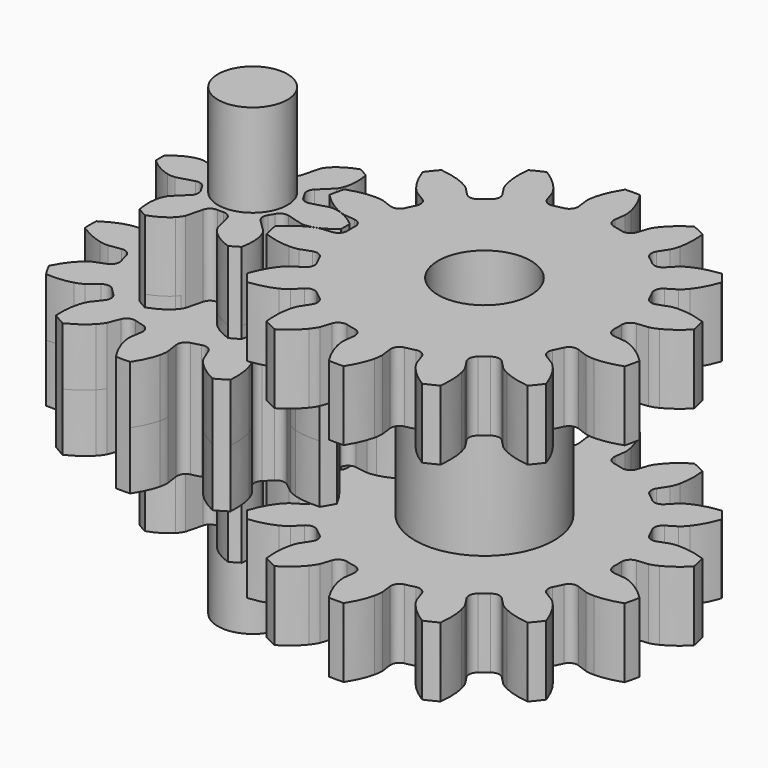
from build123d import *

# Parameters (mm, degrees)
PAD_DEPTH     = 3
SKETCH001_W   = 3.079718
SKETCH001_H   = 3
SKETCH001_W_2 = 1
SKETCH001_H_2 = 10
PAD001_DEPTH  = 3
SKETCH002_W   = 3.079718
SKETCH002_H   = 3
SKETCH002_W_2 = 1
SKETCH002_H_2 = 10
PAD002_DEPTH  = 3
PAD003_DEPTH  = 1.25
SKETCH004_R   = 0.75
PAD004_DEPTH  = 5


with BuildPart() as body:
    # InvoluteGear → Pad (new body, symmetric)
    with BuildSketch(Plane(origin=(0, 0, 0), x_dir=(0.974928, 0.222521, 0), z_dir=(0, 0, 1))):
        with BuildLine():
            Line((3.032096, -0.387481), (3.270569, -0.417559))
            add(Edge.make_bspline(
                [(3.270569, -0.417559), (3.291937, -0.418777), (3.356145, -0.419475), (3.463758, -0.395292)],
                knots=[0, 0, 0, 0, 1, 1, 1, 1], degree=3))
            add(Edge.make_bspline(
                [(3.463758, -0.395292), (3.592083, -0.365826), (3.775482, -0.301225), (3.997382, -0.16119)],
                knots=[0, 0, 0, 0, 1, 1, 1, 1], degree=3))
            ThreePointArc((3.997382, -0.16119), (4.000631, 0), (3.997382, 0.16119))
            add(Edge.make_bspline(
                [(3.997382, 0.16119), (3.775482, 0.301225), (3.592083, 0.365826), (3.463758, 0.395292)],
                knots=[0, 0, 0, 0, 1, 1, 1, 1], degree=3))
            add(Edge.make_bspline(
                [(3.463758, 0.395292), (3.356145, 0.419475), (3.291937, 0.418777), (3.270569, 0.417559)],
                knots=[0, 0, 0, 0, 1, 1, 1, 1], degree=3))
            Line((3.270569, 0.417559), (3.032096, 0.387481))
            ThreePointArc((3.032096, 0.387481), (2.898352, 0.421609), (2.824207, 0.538034))
            ThreePointArc((2.824207, 0.538034), (2.802918, 0.639748), (2.777967, 0.740625))
            ThreePointArc((2.777967, 0.740625), (2.794254, 0.877691), (2.899946, 0.966469))
            Line((2.899946, 0.966469), (3.127853, 1.042838))
            add(Edge.make_bspline(
                [(3.127853, 1.042838), (3.147633, 1.051012), (3.205786, 1.078243), (3.292249, 1.146723)],
                knots=[0, 0, 0, 0, 1, 1, 1, 1], degree=3))
            add(Edge.make_bspline(
                [(3.292249, 1.146723), (3.395081, 1.228948), (3.532289, 1.366726), (3.671455, 1.589172)],
                knots=[0, 0, 0, 0, 1, 1, 1, 1], degree=3))
            ThreePointArc((3.671455, 1.589172), (3.604444, 1.735809), (3.531579, 1.879626))
            add(Edge.make_bspline(
                [(3.531579, 1.879626), (3.270895, 1.909515), (3.077629, 1.888145), (2.949228, 1.859014)],
                knots=[0, 0, 0, 0, 1, 1, 1, 1], degree=3))
            add(Edge.make_bspline(
                [(2.949228, 1.859014), (2.841779, 1.83411), (2.784232, 1.805623), (2.765508, 1.795255)],
                knots=[0, 0, 0, 0, 1, 1, 1, 1], degree=3))
            Line((2.765508, 1.795255), (2.563703, 1.664686))
            ThreePointArc((2.563703, 1.664686), (2.428395, 1.637404), (2.311078, 1.71013))
            ThreePointArc((2.311078, 1.71013), (2.247766, 1.792533), (2.181516, 1.872595))
            ThreePointArc((2.181516, 1.872595), (2.136719, 2.003154), (2.193426, 2.128998))
            Line((2.193426, 2.128998), (2.365627, 2.29669))
            add(Edge.make_bspline(
                [(2.365627, 2.29669), (2.379902, 2.312636), (2.420481, 2.362402), (2.468669, 2.461615)],
                knots=[0, 0, 0, 0, 1, 1, 1, 1], degree=3))
            add(Edge.make_bspline(
                [(2.468669, 2.461615), (2.525642, 2.580314), (2.589482, 2.76398), (2.618351, 3.024779)],
                knots=[0, 0, 0, 0, 1, 1, 1, 1], degree=3))
            ThreePointArc((2.618351, 3.024779), (2.494353, 3.12782), (2.366304, 3.22578))
            add(Edge.make_bspline(
                [(2.366304, 3.22578), (2.118467, 3.139602), (1.953612, 3.036493), (1.850566, 2.954536)],
                knots=[0, 0, 0, 0, 1, 1, 1, 1], degree=3))
            add(Edge.make_bspline(
                [(1.850566, 2.954536), (1.764564, 2.885478), (1.725076, 2.834843), (1.712705, 2.817378)],
                knots=[0, 0, 0, 0, 1, 1, 1, 1], degree=3))
            Line((1.712705, 2.817378), (1.587536, 2.612179))
            ThreePointArc((1.587536, 2.612179), (1.477466, 2.528891), (1.340212, 2.543513))
            ThreePointArc((1.340212, 2.543513), (1.247416, 2.590285), (1.15299, 2.633674))
            ThreePointArc((1.15299, 2.633674), (1.055982, 2.731867), (1.052471, 2.869853))
            Line((1.052471, 2.869853), (1.13486, 3.095653))
            add(Edge.make_bspline(
                [(1.13486, 3.095653), (1.140803, 3.116214), (1.15577, 3.178658), (1.15614, 3.288954)],
                knots=[0, 0, 0, 0, 1, 1, 1, 1], degree=3))
            add(Edge.make_bspline(
                [(1.15614, 3.288954), (1.155968, 3.420618), (1.133797, 3.613794), (1.04665, 3.861291)],
                knots=[0, 0, 0, 0, 1, 1, 1, 1], degree=3))
            ThreePointArc((1.04665, 3.861291), (0.890224, 3.900327), (0.732353, 3.933028))
            add(Edge.make_bspline(
                [(0.732353, 3.933028), (0.546451, 3.747852), (0.442659, 3.583426), (0.385378, 3.464875)],
                knots=[0, 0, 0, 0, 1, 1, 1, 1], degree=3))
            add(Edge.make_bspline(
                [(0.385378, 3.464875), (0.337855, 3.365342), (0.324247, 3.302588), (0.32068, 3.281484)],
                knots=[0, 0, 0, 0, 1, 1, 1, 1], degree=3))
            Line((0.32068, 3.281484), (0.296939, 3.042298))
            ThreePointArc((0.296939, 3.042298), (0.233906, 2.919501), (0.103901, 2.873122))
            ThreePointArc((0.103901, 2.873122), (0, 2.875), (-0.103901, 2.873122))
            ThreePointArc((-0.103901, 2.873122), (-0.233906, 2.919501), (-0.296939, 3.042298))
            Line((-0.296939, 3.042298), (-0.32068, 3.281484))
            add(Edge.make_bspline(
                [(-0.32068, 3.281484), (-0.324247, 3.302588), (-0.337855, 3.365342), (-0.385378, 3.464875)],
                knots=[0, 0, 0, 0, 1, 1, 1, 1], degree=3))
            add(Edge.make_bspline(
                [(-0.385378, 3.464875), (-0.442659, 3.583426), (-0.546451, 3.747852), (-0.732353, 3.933028)],
                knots=[0, 0, 0, 0, 1, 1, 1, 1], degree=3))
            ThreePointArc((-0.732353, 3.933028), (-0.890224, 3.900327), (-1.04665, 3.861291))
            add(Edge.make_bspline(
                [(-1.04665, 3.861291), (-1.133797, 3.613794), (-1.155968, 3.420618), (-1.15614, 3.288954)],
                knots=[0, 0, 0, 0, 1, 1, 1, 1], degree=3))
            add(Edge.make_bspline(
                [(-1.15614, 3.288954), (-1.15577, 3.178658), (-1.140803, 3.116214), (-1.13486, 3.095653)],
                knots=[0, 0, 0, 0, 1, 1, 1, 1], degree=3))
            Line((-1.13486, 3.095653), (-1.052471, 2.869853))
            ThreePointArc((-1.052471, 2.869853), (-1.055982, 2.731867), (-1.15299, 2.633674))
            ThreePointArc((-1.15299, 2.633674), (-1.247416, 2.590285), (-1.340212, 2.543513))
            ThreePointArc((-1.340212, 2.543513), (-1.477466, 2.528891), (-1.587536, 2.612179))
            Line((-1.587536, 2.612179), (-1.712705, 2.817378))
            add(Edge.make_bspline(
                [(-1.712705, 2.817378), (-1.725076, 2.834843), (-1.764564, 2.885478), (-1.850566, 2.954536)],
                knots=[0, 0, 0, 0, 1, 1, 1, 1], degree=3))
            add(Edge.make_bspline(
                [(-1.850566, 2.954536), (-1.953612, 3.036493), (-2.118467, 3.139602), (-2.366304, 3.22578)],
                knots=[0, 0, 0, 0, 1, 1, 1, 1], degree=3))
            ThreePointArc((-2.366304, 3.22578), (-2.494353, 3.12782), (-2.618351, 3.024779))
            add(Edge.make_bspline(
                [(-2.618351, 3.024779), (-2.589482, 2.76398), (-2.525642, 2.580314), (-2.468669, 2.461615)],
                knots=[0, 0, 0, 0, 1, 1, 1, 1], degree=3))
            add(Edge.make_bspline(
                [(-2.468669, 2.461615), (-2.420481, 2.362402), (-2.379902, 2.312636), (-2.365627, 2.29669)],
                knots=[0, 0, 0, 0, 1, 1, 1, 1], degree=3))
            Line((-2.365627, 2.29669), (-2.193426, 2.128998))
            ThreePointArc((-2.193426, 2.128998), (-2.136719, 2.003154), (-2.181516, 1.872595))
            ThreePointArc((-2.181516, 1.872595), (-2.247766, 1.792533), (-2.311078, 1.71013))
            ThreePointArc((-2.311078, 1.71013), (-2.428395, 1.637404), (-2.563703, 1.664686))
            Line((-2.563703, 1.664686), (-2.765508, 1.795255))
            add(Edge.make_bspline(
                [(-2.765508, 1.795255), (-2.784232, 1.805623), (-2.841779, 1.83411), (-2.949228, 1.859014)],
                knots=[0, 0, 0, 0, 1, 1, 1, 1], degree=3))
            add(Edge.make_bspline(
                [(-2.949228, 1.859014), (-3.077629, 1.888145), (-3.270895, 1.909515), (-3.531579, 1.879626)],
                knots=[0, 0, 0, 0, 1, 1, 1, 1], degree=3))
            ThreePointArc((-3.531579, 1.879626), (-3.604444, 1.735809), (-3.671455, 1.589172))
            add(Edge.make_bspline(
                [(-3.671455, 1.589172), (-3.532289, 1.366726), (-3.395081, 1.228948), (-3.292249, 1.146723)],
                knots=[0, 0, 0, 0, 1, 1, 1, 1], degree=3))
            add(Edge.make_bspline(
                [(-3.292249, 1.146723), (-3.205786, 1.078243), (-3.147633, 1.051012), (-3.127853, 1.042838)],
                knots=[0, 0, 0, 0, 1, 1, 1, 1], degree=3))
            Line((-3.127853, 1.042838), (-2.899946, 0.966469))
            ThreePointArc((-2.899946, 0.966469), (-2.794254, 0.877691), (-2.777967, 0.740625))
            ThreePointArc((-2.777967, 0.740625), (-2.802918, 0.639748), (-2.824207, 0.538034))
            ThreePointArc((-2.824207, 0.538034), (-2.898352, 0.421609), (-3.032096, 0.387481))
            Line((-3.032096, 0.387481), (-3.270569, 0.417559))
            add(Edge.make_bspline(
                [(-3.270569, 0.417559), (-3.291937, 0.418777), (-3.356145, 0.419475), (-3.463758, 0.395292)],
                knots=[0, 0, 0, 0, 1, 1, 1, 1], degree=3))
            add(Edge.make_bspline(
                [(-3.463758, 0.395292), (-3.592083, 0.365826), (-3.775482, 0.301225), (-3.997382, 0.16119)],
                knots=[0, 0, 0, 0, 1, 1, 1, 1], degree=3))
            ThreePointArc((-3.997382, 0.16119), (-4.000631, 0), (-3.997382, -0.16119))
            add(Edge.make_bspline(
                [(-3.997382, -0.16119), (-3.775482, -0.301225), (-3.592083, -0.365826), (-3.463758, -0.395292)],
                knots=[0, 0, 0, 0, 1, 1, 1, 1], degree=3))
            add(Edge.make_bspline(
                [(-3.463758, -0.395292), (-3.356145, -0.419475), (-3.291937, -0.418777), (-3.270569, -0.417559)],
                knots=[0, 0, 0, 0, 1, 1, 1, 1], degree=3))
            Line((-3.270569, -0.417559), (-3.032096, -0.387481))
            ThreePointArc((-3.032096, -0.387481), (-2.898352, -0.421609), (-2.824207, -0.538034))
            ThreePointArc((-2.824207, -0.538034), (-2.802918, -0.639748), (-2.777967, -0.740625))
            ThreePointArc((-2.777967, -0.740625), (-2.794254, -0.877691), (-2.899946, -0.966469))
            Line((-2.899946, -0.966469), (-3.127853, -1.042838))
            add(Edge.make_bspline(
                [(-3.127853, -1.042838), (-3.147633, -1.051012), (-3.205786, -1.078243), (-3.292249, -1.146723)],
                knots=[0, 0, 0, 0, 1, 1, 1, 1], degree=3))
            add(Edge.make_bspline(
                [(-3.292249, -1.146723), (-3.395081, -1.228948), (-3.532289, -1.366726), (-3.671455, -1.589172)],
                knots=[0, 0, 0, 0, 1, 1, 1, 1], degree=3))
            ThreePointArc((-3.671455, -1.589172), (-3.604444, -1.735809), (-3.531579, -1.879626))
            add(Edge.make_bspline(
                [(-3.531579, -1.879626), (-3.270895, -1.909515), (-3.077629, -1.888145), (-2.949228, -1.859014)],
                knots=[0, 0, 0, 0, 1, 1, 1, 1], degree=3))
            add(Edge.make_bspline(
                [(-2.949228, -1.859014), (-2.841779, -1.83411), (-2.784232, -1.805623), (-2.765508, -1.795255)],
                knots=[0, 0, 0, 0, 1, 1, 1, 1], degree=3))
            Line((-2.765508, -1.795255), (-2.563703, -1.664686))
            ThreePointArc((-2.563703, -1.664686), (-2.428395, -1.637404), (-2.311078, -1.71013))
            ThreePointArc((-2.311078, -1.71013), (-2.247766, -1.792533), (-2.181516, -1.872595))
            ThreePointArc((-2.181516, -1.872595), (-2.136719, -2.003154), (-2.193426, -2.128998))
            Line((-2.193426, -2.128998), (-2.365627, -2.29669))
            add(Edge.make_bspline(
                [(-2.365627, -2.29669), (-2.379902, -2.312636), (-2.420481, -2.362402), (-2.468669, -2.461615)],
                knots=[0, 0, 0, 0, 1, 1, 1, 1], degree=3))
            add(Edge.make_bspline(
                [(-2.468669, -2.461615), (-2.525642, -2.580314), (-2.589482, -2.76398), (-2.618351, -3.024779)],
                knots=[0, 0, 0, 0, 1, 1, 1, 1], degree=3))
            ThreePointArc((-2.618351, -3.024779), (-2.494353, -3.12782), (-2.366304, -3.22578))
            add(Edge.make_bspline(
                [(-2.366304, -3.22578), (-2.118467, -3.139602), (-1.953612, -3.036493), (-1.850566, -2.954536)],
                knots=[0, 0, 0, 0, 1, 1, 1, 1], degree=3))
            add(Edge.make_bspline(
                [(-1.850566, -2.954536), (-1.764564, -2.885478), (-1.725076, -2.834843), (-1.712705, -2.817378)],
                knots=[0, 0, 0, 0, 1, 1, 1, 1], degree=3))
            Line((-1.712705, -2.817378), (-1.587536, -2.612179))
            ThreePointArc((-1.587536, -2.612179), (-1.477466, -2.528891), (-1.340212, -2.543513))
            ThreePointArc((-1.340212, -2.543513), (-1.247416, -2.590285), (-1.15299, -2.633674))
            ThreePointArc((-1.15299, -2.633674), (-1.055982, -2.731867), (-1.052471, -2.869853))
            Line((-1.052471, -2.869853), (-1.13486, -3.095653))
            add(Edge.make_bspline(
                [(-1.13486, -3.095653), (-1.140803, -3.116214), (-1.15577, -3.178658), (-1.15614, -3.288954)],
                knots=[0, 0, 0, 0, 1, 1, 1, 1], degree=3))
            add(Edge.make_bspline(
                [(-1.15614, -3.288954), (-1.155968, -3.420618), (-1.133797, -3.613794), (-1.04665, -3.861291)],
                knots=[0, 0, 0, 0, 1, 1, 1, 1], degree=3))
            ThreePointArc((-1.04665, -3.861291), (-0.890224, -3.900327), (-0.732353, -3.933028))
            add(Edge.make_bspline(
                [(-0.732353, -3.933028), (-0.546451, -3.747852), (-0.442659, -3.583426), (-0.385378, -3.464875)],
                knots=[0, 0, 0, 0, 1, 1, 1, 1], degree=3))
            add(Edge.make_bspline(
                [(-0.385378, -3.464875), (-0.337855, -3.365342), (-0.324247, -3.302588), (-0.32068, -3.281484)],
                knots=[0, 0, 0, 0, 1, 1, 1, 1], degree=3))
            Line((-0.32068, -3.281484), (-0.296939, -3.042298))
            ThreePointArc((-0.296939, -3.042298), (-0.233906, -2.919501), (-0.103901, -2.873122))
            ThreePointArc((-0.103901, -2.873122), (0, -2.875), (0.103901, -2.873122))
            ThreePointArc((0.103901, -2.873122), (0.233906, -2.919501), (0.296939, -3.042298))
            Line((0.296939, -3.042298), (0.32068, -3.281484))
            add(Edge.make_bspline(
                [(0.32068, -3.281484), (0.324247, -3.302588), (0.337855, -3.365342), (0.385378, -3.464875)],
                knots=[0, 0, 0, 0, 1, 1, 1, 1], degree=3))
            add(Edge.make_bspline(
                [(0.385378, -3.464875), (0.442659, -3.583426), (0.546451, -3.747852), (0.732353, -3.933028)],
                knots=[0, 0, 0, 0, 1, 1, 1, 1], degree=3))
            ThreePointArc((0.732353, -3.933028), (0.890224, -3.900327), (1.04665, -3.861291))
            add(Edge.make_bspline(
                [(1.04665, -3.861291), (1.133797, -3.613794), (1.155968, -3.420618), (1.15614, -3.288954)],
                knots=[0, 0, 0, 0, 1, 1, 1, 1], degree=3))
            add(Edge.make_bspline(
                [(1.15614, -3.288954), (1.15577, -3.178658), (1.140803, -3.116214), (1.13486, -3.095653)],
                knots=[0, 0, 0, 0, 1, 1, 1, 1], degree=3))
            Line((1.13486, -3.095653), (1.052471, -2.869853))
            ThreePointArc((1.052471, -2.869853), (1.055982, -2.731867), (1.15299, -2.633674))
            ThreePointArc((1.15299, -2.633674), (1.247416, -2.590285), (1.340212, -2.543513))
            ThreePointArc((1.340212, -2.543513), (1.477466, -2.528891), (1.587536, -2.612179))
            Line((1.587536, -2.612179), (1.712705, -2.817378))
            add(Edge.make_bspline(
                [(1.712705, -2.817378), (1.725076, -2.834843), (1.764564, -2.885478), (1.850566, -2.954536)],
                knots=[0, 0, 0, 0, 1, 1, 1, 1], degree=3))
            add(Edge.make_bspline(
                [(1.850566, -2.954536), (1.953612, -3.036493), (2.118467, -3.139602), (2.366304, -3.22578)],
                knots=[0, 0, 0, 0, 1, 1, 1, 1], degree=3))
            ThreePointArc((2.366304, -3.22578), (2.494353, -3.12782), (2.618351, -3.024779))
            add(Edge.make_bspline(
                [(2.618351, -3.024779), (2.589482, -2.76398), (2.525642, -2.580314), (2.468669, -2.461615)],
                knots=[0, 0, 0, 0, 1, 1, 1, 1], degree=3))
            add(Edge.make_bspline(
                [(2.468669, -2.461615), (2.420481, -2.362402), (2.379902, -2.312636), (2.365627, -2.29669)],
                knots=[0, 0, 0, 0, 1, 1, 1, 1], degree=3))
            Line((2.365627, -2.29669), (2.193426, -2.128998))
            ThreePointArc((2.193426, -2.128998), (2.136719, -2.003154), (2.181516, -1.872595))
            ThreePointArc((2.181516, -1.872595), (2.247766, -1.792533), (2.311078, -1.71013))
            ThreePointArc((2.311078, -1.71013), (2.428395, -1.637404), (2.563703, -1.664686))
            Line((2.563703, -1.664686), (2.765508, -1.795255))
            add(Edge.make_bspline(
                [(2.765508, -1.795255), (2.784232, -1.805623), (2.841779, -1.83411), (2.949228, -1.859014)],
                knots=[0, 0, 0, 0, 1, 1, 1, 1], degree=3))
            add(Edge.make_bspline(
                [(2.949228, -1.859014), (3.077629, -1.888145), (3.270895, -1.909515), (3.531579, -1.879626)],
                knots=[0, 0, 0, 0, 1, 1, 1, 1], degree=3))
            ThreePointArc((3.531579, -1.879626), (3.604444, -1.735809), (3.671455, -1.589172))
            add(Edge.make_bspline(
                [(3.671455, -1.589172), (3.532289, -1.366726), (3.395081, -1.228948), (3.292249, -1.146723)],
                knots=[0, 0, 0, 0, 1, 1, 1, 1], degree=3))
            add(Edge.make_bspline(
                [(3.292249, -1.146723), (3.205786, -1.078243), (3.147633, -1.051012), (3.127853, -1.042838)],
                knots=[0, 0, 0, 0, 1, 1, 1, 1], degree=3))
            Line((3.127853, -1.042838), (2.899946, -0.966469))
            ThreePointArc((2.899946, -0.966469), (2.794254, -0.877691), (2.777967, -0.740625))
            ThreePointArc((2.777967, -0.740625), (2.802918, -0.639748), (2.824207, -0.538034))
            ThreePointArc((2.824207, -0.538034), (2.898352, -0.421609), (3.032096, -0.387481))
        make_face()
    extrude(amount=PAD_DEPTH, both=True)

    # Sketch001 → Groove (revolve, cut)
    with BuildSketch(Plane.XZ):
        with Locations((-3.039859, 0)):
            Rectangle(SKETCH001_W, SKETCH001_H)
        with Locations((-0.5, 0)):
            Rectangle(SKETCH001_W_2, SKETCH001_H_2)
    revolve(axis=Axis((0, 0, 0), (0, 0, 1)), mode=Mode.SUBTRACT)


with BuildPart() as body001:
    # InvoluteGear001 → Pad001 (new body, symmetric)
    with BuildSketch(Plane.XY):
        with BuildLine():
            Line((1.006043, -0.285705), (1.363515, -0.38664))
            add(Edge.make_bspline(
                [(1.363515, -0.38664), (1.382622, -0.389981), (1.439701, -0.396093), (1.538721, -0.373445)],
                knots=[0, 0, 0, 0, 1, 1, 1, 1], degree=3))
            add(Edge.make_bspline(
                [(1.538721, -0.373445), (1.655028, -0.34513), (1.816791, -0.276694), (1.997727, -0.116892)],
                knots=[0, 0, 0, 0, 1, 1, 1, 1], degree=3))
            ThreePointArc((1.997727, -0.116892), (2.001146, 0), (1.997727, 0.116892))
            add(Edge.make_bspline(
                [(1.997727, 0.116892), (1.816791, 0.276694), (1.655028, 0.34513), (1.538721, 0.373445)],
                knots=[0, 0, 0, 0, 1, 1, 1, 1], degree=3))
            add(Edge.make_bspline(
                [(1.538721, 0.373445), (1.439701, 0.396093), (1.382622, 0.389981), (1.363515, 0.38664)],
                knots=[0, 0, 0, 0, 1, 1, 1, 1], degree=3))
            Line((1.363515, 0.38664), (1.006043, 0.285705))
            ThreePointArc((1.006043, 0.285705), (0.87945, 0.294376), (0.787367, 0.381679))
            ThreePointArc((0.787367, 0.381679), (0.757772, 0.4375), (0.724227, 0.49104))
            ThreePointArc((0.724227, 0.49104), (0.694661, 0.614438), (0.750449, 0.728406))
            Line((0.750449, 0.728406), (1.016597, 0.987519))
            add(Edge.make_bspline(
                [(1.016597, 0.987519), (1.029044, 1.002395), (1.062877, 1.048771), (1.092773, 1.145849)],
                knots=[0, 0, 0, 0, 1, 1, 1, 1], degree=3))
            add(Edge.make_bspline(
                [(1.092773, 1.145849), (1.126405, 1.260731), (1.148019, 1.43504), (1.100095, 1.671636)],
                knots=[0, 0, 0, 0, 1, 1, 1, 1], degree=3))
            ThreePointArc((1.100095, 1.671636), (1.000573, 1.733043), (0.897632, 1.788529))
            add(Edge.make_bspline(
                [(0.897632, 1.788529), (0.668772, 1.711734), (0.528623, 1.605861), (0.445948, 1.519294)],
                knots=[0, 0, 0, 0, 1, 1, 1, 1], degree=3))
            add(Edge.make_bspline(
                [(0.445948, 1.519294), (0.376823, 1.444864), (0.353577, 1.392376), (0.346918, 1.374158)],
                knots=[0, 0, 0, 0, 1, 1, 1, 1], degree=3))
            Line((0.346918, 1.374158), (0.255594, 1.014111))
            ThreePointArc((0.255594, 1.014111), (0.184788, 0.908813), (0.06314, 0.872719))
            ThreePointArc((0.06314, 0.872719), (0, 0.875), (-0.06314, 0.872719))
            ThreePointArc((-0.06314, 0.872719), (-0.184788, 0.908813), (-0.255594, 1.014111))
            Line((-0.255594, 1.014111), (-0.346918, 1.374158))
            add(Edge.make_bspline(
                [(-0.346918, 1.374158), (-0.353577, 1.392376), (-0.376823, 1.444864), (-0.445948, 1.519294)],
                knots=[0, 0, 0, 0, 1, 1, 1, 1], degree=3))
            add(Edge.make_bspline(
                [(-0.445948, 1.519294), (-0.528623, 1.605861), (-0.668772, 1.711734), (-0.897632, 1.788529)],
                knots=[0, 0, 0, 0, 1, 1, 1, 1], degree=3))
            ThreePointArc((-0.897632, 1.788529), (-1.000573, 1.733043), (-1.100095, 1.671636))
            add(Edge.make_bspline(
                [(-1.100095, 1.671636), (-1.148019, 1.43504), (-1.126405, 1.260731), (-1.092773, 1.145849)],
                knots=[0, 0, 0, 0, 1, 1, 1, 1], degree=3))
            add(Edge.make_bspline(
                [(-1.092773, 1.145849), (-1.062877, 1.048771), (-1.029044, 1.002395), (-1.016597, 0.987519)],
                knots=[0, 0, 0, 0, 1, 1, 1, 1], degree=3))
            Line((-1.016597, 0.987519), (-0.750449, 0.728406))
            ThreePointArc((-0.750449, 0.728406), (-0.694661, 0.614438), (-0.724227, 0.49104))
            ThreePointArc((-0.724227, 0.49104), (-0.757772, 0.4375), (-0.787367, 0.381679))
            ThreePointArc((-0.787367, 0.381679), (-0.87945, 0.294376), (-1.006043, 0.285705))
            Line((-1.006043, 0.285705), (-1.363515, 0.38664))
            add(Edge.make_bspline(
                [(-1.363515, 0.38664), (-1.382622, 0.389981), (-1.439701, 0.396093), (-1.538721, 0.373445)],
                knots=[0, 0, 0, 0, 1, 1, 1, 1], degree=3))
            add(Edge.make_bspline(
                [(-1.538721, 0.373445), (-1.655028, 0.34513), (-1.816791, 0.276694), (-1.997727, 0.116892)],
                knots=[0, 0, 0, 0, 1, 1, 1, 1], degree=3))
            ThreePointArc((-1.997727, 0.116892), (-2.001146, 0), (-1.997727, -0.116892))
            add(Edge.make_bspline(
                [(-1.997727, -0.116892), (-1.816791, -0.276694), (-1.655028, -0.34513), (-1.538721, -0.373445)],
                knots=[0, 0, 0, 0, 1, 1, 1, 1], degree=3))
            add(Edge.make_bspline(
                [(-1.538721, -0.373445), (-1.439701, -0.396093), (-1.382622, -0.389981), (-1.363515, -0.38664)],
                knots=[0, 0, 0, 0, 1, 1, 1, 1], degree=3))
            Line((-1.363515, -0.38664), (-1.006043, -0.285705))
            ThreePointArc((-1.006043, -0.285705), (-0.87945, -0.294376), (-0.787367, -0.381679))
            ThreePointArc((-0.787367, -0.381679), (-0.757772, -0.4375), (-0.724227, -0.49104))
            ThreePointArc((-0.724227, -0.49104), (-0.694661, -0.614438), (-0.750449, -0.728406))
            Line((-0.750449, -0.728406), (-1.016597, -0.987519))
            add(Edge.make_bspline(
                [(-1.016597, -0.987519), (-1.029044, -1.002395), (-1.062877, -1.048771), (-1.092773, -1.145849)],
                knots=[0, 0, 0, 0, 1, 1, 1, 1], degree=3))
            add(Edge.make_bspline(
                [(-1.092773, -1.145849), (-1.126405, -1.260731), (-1.148019, -1.43504), (-1.100095, -1.671636)],
                knots=[0, 0, 0, 0, 1, 1, 1, 1], degree=3))
            ThreePointArc((-1.100095, -1.671636), (-1.000573, -1.733043), (-0.897632, -1.788529))
            add(Edge.make_bspline(
                [(-0.897632, -1.788529), (-0.668772, -1.711734), (-0.528623, -1.605861), (-0.445948, -1.519294)],
                knots=[0, 0, 0, 0, 1, 1, 1, 1], degree=3))
            add(Edge.make_bspline(
                [(-0.445948, -1.519294), (-0.376823, -1.444864), (-0.353577, -1.392376), (-0.346918, -1.374158)],
                knots=[0, 0, 0, 0, 1, 1, 1, 1], degree=3))
            Line((-0.346918, -1.374158), (-0.255594, -1.014111))
            ThreePointArc((-0.255594, -1.014111), (-0.184788, -0.908813), (-0.06314, -0.872719))
            ThreePointArc((-0.06314, -0.872719), (0, -0.875), (0.06314, -0.872719))
            ThreePointArc((0.06314, -0.872719), (0.184788, -0.908813), (0.255594, -1.014111))
            Line((0.255594, -1.014111), (0.346918, -1.374158))
            add(Edge.make_bspline(
                [(0.346918, -1.374158), (0.353577, -1.392376), (0.376823, -1.444864), (0.445948, -1.519294)],
                knots=[0, 0, 0, 0, 1, 1, 1, 1], degree=3))
            add(Edge.make_bspline(
                [(0.445948, -1.519294), (0.528623, -1.605861), (0.668772, -1.711734), (0.897632, -1.788529)],
                knots=[0, 0, 0, 0, 1, 1, 1, 1], degree=3))
            ThreePointArc((0.897632, -1.788529), (1.000573, -1.733043), (1.100095, -1.671636))
            add(Edge.make_bspline(
                [(1.100095, -1.671636), (1.148019, -1.43504), (1.126405, -1.260731), (1.092773, -1.145849)],
                knots=[0, 0, 0, 0, 1, 1, 1, 1], degree=3))
            add(Edge.make_bspline(
                [(1.092773, -1.145849), (1.062877, -1.048771), (1.029044, -1.002395), (1.016597, -0.987519)],
                knots=[0, 0, 0, 0, 1, 1, 1, 1], degree=3))
            Line((1.016597, -0.987519), (0.750449, -0.728406))
            ThreePointArc((0.750449, -0.728406), (0.694661, -0.614438), (0.724227, -0.49104))
            ThreePointArc((0.724227, -0.49104), (0.757772, -0.4375), (0.787367, -0.381679))
            ThreePointArc((0.787367, -0.381679), (0.87945, -0.294376), (1.006043, -0.285705))
        make_face()
    extrude(amount=PAD001_DEPTH, both=True)

    # Sketch002 → Groove001 (revolve, cut)
    with BuildSketch(Plane.XZ):
        with Locations((-3.039859, 0)):
            Rectangle(SKETCH002_W, SKETCH002_H)
        with Locations((-0.5, 0)):
            Rectangle(SKETCH002_W_2, SKETCH002_H_2)
    revolve(axis=Axis((0, 0, 0), (0, 0, 1)), mode=Mode.SUBTRACT)

    # InvoluteGear001 → Pad002 (join, symmetric)
    with BuildSketch(Plane.XY):
        with BuildLine():
            Line((1.006043, -0.285705), (1.363515, -0.38664))
            add(Edge.make_bspline(
                [(1.363515, -0.38664), (1.382622, -0.389981), (1.439701, -0.396093), (1.538721, -0.373445)],
                knots=[0, 0, 0, 0, 1, 1, 1, 1], degree=3))
            add(Edge.make_bspline(
                [(1.538721, -0.373445), (1.655028, -0.34513), (1.816791, -0.276694), (1.997727, -0.116892)],
                knots=[0, 0, 0, 0, 1, 1, 1, 1], degree=3))
            ThreePointArc((1.997727, -0.116892), (2.001146, 0), (1.997727, 0.116892))
            add(Edge.make_bspline(
                [(1.997727, 0.116892), (1.816791, 0.276694), (1.655028, 0.34513), (1.538721, 0.373445)],
                knots=[0, 0, 0, 0, 1, 1, 1, 1], degree=3))
            add(Edge.make_bspline(
                [(1.538721, 0.373445), (1.439701, 0.396093), (1.382622, 0.389981), (1.363515, 0.38664)],
                knots=[0, 0, 0, 0, 1, 1, 1, 1], degree=3))
            Line((1.363515, 0.38664), (1.006043, 0.285705))
            ThreePointArc((1.006043, 0.285705), (0.87945, 0.294376), (0.787367, 0.381679))
            ThreePointArc((0.787367, 0.381679), (0.757772, 0.4375), (0.724227, 0.49104))
            ThreePointArc((0.724227, 0.49104), (0.694661, 0.614438), (0.750449, 0.728406))
            Line((0.750449, 0.728406), (1.016597, 0.987519))
            add(Edge.make_bspline(
                [(1.016597, 0.987519), (1.029044, 1.002395), (1.062877, 1.048771), (1.092773, 1.145849)],
                knots=[0, 0, 0, 0, 1, 1, 1, 1], degree=3))
            add(Edge.make_bspline(
                [(1.092773, 1.145849), (1.126405, 1.260731), (1.148019, 1.43504), (1.100095, 1.671636)],
                knots=[0, 0, 0, 0, 1, 1, 1, 1], degree=3))
            ThreePointArc((1.100095, 1.671636), (1.000573, 1.733043), (0.897632, 1.788529))
            add(Edge.make_bspline(
                [(0.897632, 1.788529), (0.668772, 1.711734), (0.528623, 1.605861), (0.445948, 1.519294)],
                knots=[0, 0, 0, 0, 1, 1, 1, 1], degree=3))
            add(Edge.make_bspline(
                [(0.445948, 1.519294), (0.376823, 1.444864), (0.353577, 1.392376), (0.346918, 1.374158)],
                knots=[0, 0, 0, 0, 1, 1, 1, 1], degree=3))
            Line((0.346918, 1.374158), (0.255594, 1.014111))
            ThreePointArc((0.255594, 1.014111), (0.184788, 0.908813), (0.06314, 0.872719))
            ThreePointArc((0.06314, 0.872719), (0, 0.875), (-0.06314, 0.872719))
            ThreePointArc((-0.06314, 0.872719), (-0.184788, 0.908813), (-0.255594, 1.014111))
            Line((-0.255594, 1.014111), (-0.346918, 1.374158))
            add(Edge.make_bspline(
                [(-0.346918, 1.374158), (-0.353577, 1.392376), (-0.376823, 1.444864), (-0.445948, 1.519294)],
                knots=[0, 0, 0, 0, 1, 1, 1, 1], degree=3))
            add(Edge.make_bspline(
                [(-0.445948, 1.519294), (-0.528623, 1.605861), (-0.668772, 1.711734), (-0.897632, 1.788529)],
                knots=[0, 0, 0, 0, 1, 1, 1, 1], degree=3))
            ThreePointArc((-0.897632, 1.788529), (-1.000573, 1.733043), (-1.100095, 1.671636))
            add(Edge.make_bspline(
                [(-1.100095, 1.671636), (-1.148019, 1.43504), (-1.126405, 1.260731), (-1.092773, 1.145849)],
                knots=[0, 0, 0, 0, 1, 1, 1, 1], degree=3))
            add(Edge.make_bspline(
                [(-1.092773, 1.145849), (-1.062877, 1.048771), (-1.029044, 1.002395), (-1.016597, 0.987519)],
                knots=[0, 0, 0, 0, 1, 1, 1, 1], degree=3))
            Line((-1.016597, 0.987519), (-0.750449, 0.728406))
            ThreePointArc((-0.750449, 0.728406), (-0.694661, 0.614438), (-0.724227, 0.49104))
            ThreePointArc((-0.724227, 0.49104), (-0.757772, 0.4375), (-0.787367, 0.381679))
            ThreePointArc((-0.787367, 0.381679), (-0.87945, 0.294376), (-1.006043, 0.285705))
            Line((-1.006043, 0.285705), (-1.363515, 0.38664))
            add(Edge.make_bspline(
                [(-1.363515, 0.38664), (-1.382622, 0.389981), (-1.439701, 0.396093), (-1.538721, 0.373445)],
                knots=[0, 0, 0, 0, 1, 1, 1, 1], degree=3))
            add(Edge.make_bspline(
                [(-1.538721, 0.373445), (-1.655028, 0.34513), (-1.816791, 0.276694), (-1.997727, 0.116892)],
                knots=[0, 0, 0, 0, 1, 1, 1, 1], degree=3))
            ThreePointArc((-1.997727, 0.116892), (-2.001146, 0), (-1.997727, -0.116892))
            add(Edge.make_bspline(
                [(-1.997727, -0.116892), (-1.816791, -0.276694), (-1.655028, -0.34513), (-1.538721, -0.373445)],
                knots=[0, 0, 0, 0, 1, 1, 1, 1], degree=3))
            add(Edge.make_bspline(
                [(-1.538721, -0.373445), (-1.439701, -0.396093), (-1.382622, -0.389981), (-1.363515, -0.38664)],
                knots=[0, 0, 0, 0, 1, 1, 1, 1], degree=3))
            Line((-1.363515, -0.38664), (-1.006043, -0.285705))
            ThreePointArc((-1.006043, -0.285705), (-0.87945, -0.294376), (-0.787367, -0.381679))
            ThreePointArc((-0.787367, -0.381679), (-0.757772, -0.4375), (-0.724227, -0.49104))
            ThreePointArc((-0.724227, -0.49104), (-0.694661, -0.614438), (-0.750449, -0.728406))
            Line((-0.750449, -0.728406), (-1.016597, -0.987519))
            add(Edge.make_bspline(
                [(-1.016597, -0.987519), (-1.029044, -1.002395), (-1.062877, -1.048771), (-1.092773, -1.145849)],
                knots=[0, 0, 0, 0, 1, 1, 1, 1], degree=3))
            add(Edge.make_bspline(
                [(-1.092773, -1.145849), (-1.126405, -1.260731), (-1.148019, -1.43504), (-1.100095, -1.671636)],
                knots=[0, 0, 0, 0, 1, 1, 1, 1], degree=3))
            ThreePointArc((-1.100095, -1.671636), (-1.000573, -1.733043), (-0.897632, -1.788529))
            add(Edge.make_bspline(
                [(-0.897632, -1.788529), (-0.668772, -1.711734), (-0.528623, -1.605861), (-0.445948, -1.519294)],
                knots=[0, 0, 0, 0, 1, 1, 1, 1], degree=3))
            add(Edge.make_bspline(
                [(-0.445948, -1.519294), (-0.376823, -1.444864), (-0.353577, -1.392376), (-0.346918, -1.374158)],
                knots=[0, 0, 0, 0, 1, 1, 1, 1], degree=3))
            Line((-0.346918, -1.374158), (-0.255594, -1.014111))
            ThreePointArc((-0.255594, -1.014111), (-0.184788, -0.908813), (-0.06314, -0.872719))
            ThreePointArc((-0.06314, -0.872719), (0, -0.875), (0.06314, -0.872719))
            ThreePointArc((0.06314, -0.872719), (0.184788, -0.908813), (0.255594, -1.014111))
            Line((0.255594, -1.014111), (0.346918, -1.374158))
            add(Edge.make_bspline(
                [(0.346918, -1.374158), (0.353577, -1.392376), (0.376823, -1.444864), (0.445948, -1.519294)],
                knots=[0, 0, 0, 0, 1, 1, 1, 1], degree=3))
            add(Edge.make_bspline(
                [(0.445948, -1.519294), (0.528623, -1.605861), (0.668772, -1.711734), (0.897632, -1.788529)],
                knots=[0, 0, 0, 0, 1, 1, 1, 1], degree=3))
            ThreePointArc((0.897632, -1.788529), (1.000573, -1.733043), (1.100095, -1.671636))
            add(Edge.make_bspline(
                [(1.100095, -1.671636), (1.148019, -1.43504), (1.126405, -1.260731), (1.092773, -1.145849)],
                knots=[0, 0, 0, 0, 1, 1, 1, 1], degree=3))
            add(Edge.make_bspline(
                [(1.092773, -1.145849), (1.062877, -1.048771), (1.029044, -1.002395), (1.016597, -0.987519)],
                knots=[0, 0, 0, 0, 1, 1, 1, 1], degree=3))
            Line((1.016597, -0.987519), (0.750449, -0.728406))
            ThreePointArc((0.750449, -0.728406), (0.694661, -0.614438), (0.724227, -0.49104))
            ThreePointArc((0.724227, -0.49104), (0.757772, -0.4375), (0.787367, -0.381679))
            ThreePointArc((0.787367, -0.381679), (0.87945, -0.294376), (1.006043, -0.285705))
        make_face()
    extrude(amount=PAD002_DEPTH, both=True)

    # InvoluteGear002 → Pad003 (join, symmetric)
    with BuildSketch(Plane.XY):
        with BuildLine():
            Line((2.528514, -0.371303), (2.797114, -0.410332))
            add(Edge.make_bspline(
                [(2.797114, -0.410332), (2.817791, -0.411804), (2.879869, -0.41318), (2.984231, -0.389418)],
                knots=[0, 0, 0, 0, 1, 1, 1, 1], degree=3))
            add(Edge.make_bspline(
                [(2.984231, -0.389418), (3.108457, -0.360405), (3.285345, -0.29598), (3.497257, -0.154878)],
                knots=[0, 0, 0, 0, 1, 1, 1, 1], degree=3))
            ThreePointArc((3.497257, -0.154878), (3.500685, 0), (3.497257, 0.154878))
            add(Edge.make_bspline(
                [(3.497257, 0.154878), (3.285345, 0.29598), (3.108457, 0.360405), (2.984231, 0.389418)],
                knots=[0, 0, 0, 0, 1, 1, 1, 1], degree=3))
            add(Edge.make_bspline(
                [(2.984231, 0.389418), (2.879869, 0.41318), (2.817791, 0.411804), (2.797114, 0.410332)],
                knots=[0, 0, 0, 0, 1, 1, 1, 1], degree=3))
            Line((2.797114, 0.410332), (2.528514, 0.371303))
            ThreePointArc((2.528514, 0.371303), (2.395133, 0.402247), (2.318354, 0.515617))
            ThreePointArc((2.318354, 0.515617), (2.294074, 0.614695), (2.265562, 0.712639))
            ThreePointArc((2.265562, 0.712639), (2.27537, 0.849211), (2.375409, 0.9427))
            Line((2.375409, 0.9427), (2.627538, 1.043199))
            add(Edge.make_bspline(
                [(2.627538, 1.043199), (2.646181, 1.052262), (2.700629, 1.08211), (2.779129, 1.154869)],
                knots=[0, 0, 0, 0, 1, 1, 1, 1], degree=3))
            add(Edge.make_bspline(
                [(2.779129, 1.154869), (2.872205, 1.242109), (2.993182, 1.386346), (3.106152, 1.6145)],
                knots=[0, 0, 0, 0, 1, 1, 1, 1], degree=3))
            ThreePointArc((3.106152, 1.6145), (3.031682, 1.750343), (2.951274, 1.882757))
            add(Edge.make_bspline(
                [(2.951274, 1.882757), (2.697202, 1.898999), (2.5118, 1.866348), (2.389711, 1.829362)],
                knots=[0, 0, 0, 0, 1, 1, 1, 1], degree=3))
            add(Edge.make_bspline(
                [(2.389711, 1.829362), (2.28745, 1.797759), (2.234376, 1.765528), (2.217206, 1.753915)],
                knots=[0, 0, 0, 0, 1, 1, 1, 1], degree=3))
            Line((2.217206, 1.753915), (2.004106, 1.585815))
            ThreePointArc((2.004106, 1.585815), (1.873123, 1.545922), (1.749945, 1.605714))
            ThreePointArc((1.749945, 1.605714), (1.679379, 1.679379), (1.605714, 1.749945))
            ThreePointArc((1.605714, 1.749945), (1.545922, 1.873123), (1.585815, 2.004106))
            Line((1.585815, 2.004106), (1.753915, 2.217206))
            add(Edge.make_bspline(
                [(1.753915, 2.217206), (1.765528, 2.234376), (1.797759, 2.28745), (1.829362, 2.389711)],
                knots=[0, 0, 0, 0, 1, 1, 1, 1], degree=3))
            add(Edge.make_bspline(
                [(1.829362, 2.389711), (1.866348, 2.5118), (1.898999, 2.697202), (1.882757, 2.951274)],
                knots=[0, 0, 0, 0, 1, 1, 1, 1], degree=3))
            ThreePointArc((1.882757, 2.951274), (1.750343, 3.031682), (1.6145, 3.106152))
            add(Edge.make_bspline(
                [(1.6145, 3.106152), (1.386346, 2.993182), (1.242109, 2.872205), (1.154869, 2.779129)],
                knots=[0, 0, 0, 0, 1, 1, 1, 1], degree=3))
            add(Edge.make_bspline(
                [(1.154869, 2.779129), (1.08211, 2.700629), (1.052262, 2.646181), (1.043199, 2.627538)],
                knots=[0, 0, 0, 0, 1, 1, 1, 1], degree=3))
            Line((1.043199, 2.627538), (0.9427, 2.375409))
            ThreePointArc((0.9427, 2.375409), (0.849211, 2.27537), (0.712639, 2.265562))
            ThreePointArc((0.712639, 2.265562), (0.614695, 2.294074), (0.515617, 2.318354))
            ThreePointArc((0.515617, 2.318354), (0.402247, 2.395133), (0.371303, 2.528514))
            Line((0.371303, 2.528514), (0.410332, 2.797114))
            add(Edge.make_bspline(
                [(0.410332, 2.797114), (0.411804, 2.817791), (0.41318, 2.879869), (0.389418, 2.984231)],
                knots=[0, 0, 0, 0, 1, 1, 1, 1], degree=3))
            add(Edge.make_bspline(
                [(0.389418, 2.984231), (0.360405, 3.108457), (0.29598, 3.285345), (0.154878, 3.497257)],
                knots=[0, 0, 0, 0, 1, 1, 1, 1], degree=3))
            ThreePointArc((0.154878, 3.497257), (0, 3.500685), (-0.154878, 3.497257))
            add(Edge.make_bspline(
                [(-0.154878, 3.497257), (-0.29598, 3.285345), (-0.360405, 3.108457), (-0.389418, 2.984231)],
                knots=[0, 0, 0, 0, 1, 1, 1, 1], degree=3))
            add(Edge.make_bspline(
                [(-0.389418, 2.984231), (-0.41318, 2.879869), (-0.411804, 2.817791), (-0.410332, 2.797114)],
                knots=[0, 0, 0, 0, 1, 1, 1, 1], degree=3))
            Line((-0.410332, 2.797114), (-0.371303, 2.528514))
            ThreePointArc((-0.371303, 2.528514), (-0.402247, 2.395133), (-0.515617, 2.318354))
            ThreePointArc((-0.515617, 2.318354), (-0.614695, 2.294074), (-0.712639, 2.265562))
            ThreePointArc((-0.712639, 2.265562), (-0.849211, 2.27537), (-0.9427, 2.375409))
            Line((-0.9427, 2.375409), (-1.043199, 2.627538))
            add(Edge.make_bspline(
                [(-1.043199, 2.627538), (-1.052262, 2.646181), (-1.08211, 2.700629), (-1.154869, 2.779129)],
                knots=[0, 0, 0, 0, 1, 1, 1, 1], degree=3))
            add(Edge.make_bspline(
                [(-1.154869, 2.779129), (-1.242109, 2.872205), (-1.386346, 2.993182), (-1.6145, 3.106152)],
                knots=[0, 0, 0, 0, 1, 1, 1, 1], degree=3))
            ThreePointArc((-1.6145, 3.106152), (-1.750343, 3.031682), (-1.882757, 2.951274))
            add(Edge.make_bspline(
                [(-1.882757, 2.951274), (-1.898999, 2.697202), (-1.866348, 2.5118), (-1.829362, 2.389711)],
                knots=[0, 0, 0, 0, 1, 1, 1, 1], degree=3))
            add(Edge.make_bspline(
                [(-1.829362, 2.389711), (-1.797759, 2.28745), (-1.765528, 2.234376), (-1.753915, 2.217206)],
                knots=[0, 0, 0, 0, 1, 1, 1, 1], degree=3))
            Line((-1.753915, 2.217206), (-1.585815, 2.004106))
            ThreePointArc((-1.585815, 2.004106), (-1.545922, 1.873123), (-1.605714, 1.749945))
            ThreePointArc((-1.605714, 1.749945), (-1.679379, 1.679379), (-1.749945, 1.605714))
            ThreePointArc((-1.749945, 1.605714), (-1.873123, 1.545922), (-2.004106, 1.585815))
            Line((-2.004106, 1.585815), (-2.217206, 1.753915))
            add(Edge.make_bspline(
                [(-2.217206, 1.753915), (-2.234376, 1.765528), (-2.28745, 1.797759), (-2.389711, 1.829362)],
                knots=[0, 0, 0, 0, 1, 1, 1, 1], degree=3))
            add(Edge.make_bspline(
                [(-2.389711, 1.829362), (-2.5118, 1.866348), (-2.697202, 1.898999), (-2.951274, 1.882757)],
                knots=[0, 0, 0, 0, 1, 1, 1, 1], degree=3))
            ThreePointArc((-2.951274, 1.882757), (-3.031682, 1.750343), (-3.106152, 1.6145))
            add(Edge.make_bspline(
                [(-3.106152, 1.6145), (-2.993182, 1.386346), (-2.872205, 1.242109), (-2.779129, 1.154869)],
                knots=[0, 0, 0, 0, 1, 1, 1, 1], degree=3))
            add(Edge.make_bspline(
                [(-2.779129, 1.154869), (-2.700629, 1.08211), (-2.646181, 1.052262), (-2.627538, 1.043199)],
                knots=[0, 0, 0, 0, 1, 1, 1, 1], degree=3))
            Line((-2.627538, 1.043199), (-2.375409, 0.9427))
            ThreePointArc((-2.375409, 0.9427), (-2.27537, 0.849211), (-2.265562, 0.712639))
            ThreePointArc((-2.265562, 0.712639), (-2.294074, 0.614695), (-2.318354, 0.515617))
            ThreePointArc((-2.318354, 0.515617), (-2.395133, 0.402247), (-2.528514, 0.371303))
            Line((-2.528514, 0.371303), (-2.797114, 0.410332))
            add(Edge.make_bspline(
                [(-2.797114, 0.410332), (-2.817791, 0.411804), (-2.879869, 0.41318), (-2.984231, 0.389418)],
                knots=[0, 0, 0, 0, 1, 1, 1, 1], degree=3))
            add(Edge.make_bspline(
                [(-2.984231, 0.389418), (-3.108457, 0.360405), (-3.285345, 0.29598), (-3.497257, 0.154878)],
                knots=[0, 0, 0, 0, 1, 1, 1, 1], degree=3))
            ThreePointArc((-3.497257, 0.154878), (-3.500685, 0), (-3.497257, -0.154878))
            add(Edge.make_bspline(
                [(-3.497257, -0.154878), (-3.285345, -0.29598), (-3.108457, -0.360405), (-2.984231, -0.389418)],
                knots=[0, 0, 0, 0, 1, 1, 1, 1], degree=3))
            add(Edge.make_bspline(
                [(-2.984231, -0.389418), (-2.879869, -0.41318), (-2.817791, -0.411804), (-2.797114, -0.410332)],
                knots=[0, 0, 0, 0, 1, 1, 1, 1], degree=3))
            Line((-2.797114, -0.410332), (-2.528514, -0.371303))
            ThreePointArc((-2.528514, -0.371303), (-2.395133, -0.402247), (-2.318354, -0.515617))
            ThreePointArc((-2.318354, -0.515617), (-2.294074, -0.614695), (-2.265562, -0.712639))
            ThreePointArc((-2.265562, -0.712639), (-2.27537, -0.849211), (-2.375409, -0.9427))
            Line((-2.375409, -0.9427), (-2.627538, -1.043199))
            add(Edge.make_bspline(
                [(-2.627538, -1.043199), (-2.646181, -1.052262), (-2.700629, -1.08211), (-2.779129, -1.154869)],
                knots=[0, 0, 0, 0, 1, 1, 1, 1], degree=3))
            add(Edge.make_bspline(
                [(-2.779129, -1.154869), (-2.872205, -1.242109), (-2.993182, -1.386346), (-3.106152, -1.6145)],
                knots=[0, 0, 0, 0, 1, 1, 1, 1], degree=3))
            ThreePointArc((-3.106152, -1.6145), (-3.031682, -1.750343), (-2.951274, -1.882757))
            add(Edge.make_bspline(
                [(-2.951274, -1.882757), (-2.697202, -1.898999), (-2.5118, -1.866348), (-2.389711, -1.829362)],
                knots=[0, 0, 0, 0, 1, 1, 1, 1], degree=3))
            add(Edge.make_bspline(
                [(-2.389711, -1.829362), (-2.28745, -1.797759), (-2.234376, -1.765528), (-2.217206, -1.753915)],
                knots=[0, 0, 0, 0, 1, 1, 1, 1], degree=3))
            Line((-2.217206, -1.753915), (-2.004106, -1.585815))
            ThreePointArc((-2.004106, -1.585815), (-1.873123, -1.545922), (-1.749945, -1.605714))
            ThreePointArc((-1.749945, -1.605714), (-1.679379, -1.679379), (-1.605714, -1.749945))
            ThreePointArc((-1.605714, -1.749945), (-1.545922, -1.873123), (-1.585815, -2.004106))
            Line((-1.585815, -2.004106), (-1.753915, -2.217206))
            add(Edge.make_bspline(
                [(-1.753915, -2.217206), (-1.765528, -2.234376), (-1.797759, -2.28745), (-1.829362, -2.389711)],
                knots=[0, 0, 0, 0, 1, 1, 1, 1], degree=3))
            add(Edge.make_bspline(
                [(-1.829362, -2.389711), (-1.866348, -2.5118), (-1.898999, -2.697202), (-1.882757, -2.951274)],
                knots=[0, 0, 0, 0, 1, 1, 1, 1], degree=3))
            ThreePointArc((-1.882757, -2.951274), (-1.750343, -3.031682), (-1.6145, -3.106152))
            add(Edge.make_bspline(
                [(-1.6145, -3.106152), (-1.386346, -2.993182), (-1.242109, -2.872205), (-1.154869, -2.779129)],
                knots=[0, 0, 0, 0, 1, 1, 1, 1], degree=3))
            add(Edge.make_bspline(
                [(-1.154869, -2.779129), (-1.08211, -2.700629), (-1.052262, -2.646181), (-1.043199, -2.627538)],
                knots=[0, 0, 0, 0, 1, 1, 1, 1], degree=3))
            Line((-1.043199, -2.627538), (-0.9427, -2.375409))
            ThreePointArc((-0.9427, -2.375409), (-0.849211, -2.27537), (-0.712639, -2.265562))
            ThreePointArc((-0.712639, -2.265562), (-0.614695, -2.294074), (-0.515617, -2.318354))
            ThreePointArc((-0.515617, -2.318354), (-0.402247, -2.395133), (-0.371303, -2.528514))
            Line((-0.371303, -2.528514), (-0.410332, -2.797114))
            add(Edge.make_bspline(
                [(-0.410332, -2.797114), (-0.411804, -2.817791), (-0.41318, -2.879869), (-0.389418, -2.984231)],
                knots=[0, 0, 0, 0, 1, 1, 1, 1], degree=3))
            add(Edge.make_bspline(
                [(-0.389418, -2.984231), (-0.360405, -3.108457), (-0.29598, -3.285345), (-0.154878, -3.497257)],
                knots=[0, 0, 0, 0, 1, 1, 1, 1], degree=3))
            ThreePointArc((-0.154878, -3.497257), (0, -3.500685), (0.154878, -3.497257))
            add(Edge.make_bspline(
                [(0.154878, -3.497257), (0.29598, -3.285345), (0.360405, -3.108457), (0.389418, -2.984231)],
                knots=[0, 0, 0, 0, 1, 1, 1, 1], degree=3))
            add(Edge.make_bspline(
                [(0.389418, -2.984231), (0.41318, -2.879869), (0.411804, -2.817791), (0.410332, -2.797114)],
                knots=[0, 0, 0, 0, 1, 1, 1, 1], degree=3))
            Line((0.410332, -2.797114), (0.371303, -2.528514))
            ThreePointArc((0.371303, -2.528514), (0.402247, -2.395133), (0.515617, -2.318354))
            ThreePointArc((0.515617, -2.318354), (0.614695, -2.294074), (0.712639, -2.265562))
            ThreePointArc((0.712639, -2.265562), (0.849211, -2.27537), (0.9427, -2.375409))
            Line((0.9427, -2.375409), (1.043199, -2.627538))
            add(Edge.make_bspline(
                [(1.043199, -2.627538), (1.052262, -2.646181), (1.08211, -2.700629), (1.154869, -2.779129)],
                knots=[0, 0, 0, 0, 1, 1, 1, 1], degree=3))
            add(Edge.make_bspline(
                [(1.154869, -2.779129), (1.242109, -2.872205), (1.386346, -2.993182), (1.6145, -3.106152)],
                knots=[0, 0, 0, 0, 1, 1, 1, 1], degree=3))
            ThreePointArc((1.6145, -3.106152), (1.750343, -3.031682), (1.882757, -2.951274))
            add(Edge.make_bspline(
                [(1.882757, -2.951274), (1.898999, -2.697202), (1.866348, -2.5118), (1.829362, -2.389711)],
                knots=[0, 0, 0, 0, 1, 1, 1, 1], degree=3))
            add(Edge.make_bspline(
                [(1.829362, -2.389711), (1.797759, -2.28745), (1.765528, -2.234376), (1.753915, -2.217206)],
                knots=[0, 0, 0, 0, 1, 1, 1, 1], degree=3))
            Line((1.753915, -2.217206), (1.585815, -2.004106))
            ThreePointArc((1.585815, -2.004106), (1.545922, -1.873123), (1.605714, -1.749945))
            ThreePointArc((1.605714, -1.749945), (1.679379, -1.679379), (1.749945, -1.605714))
            ThreePointArc((1.749945, -1.605714), (1.873123, -1.545922), (2.004106, -1.585815))
            Line((2.004106, -1.585815), (2.217206, -1.753915))
            add(Edge.make_bspline(
                [(2.217206, -1.753915), (2.234376, -1.765528), (2.28745, -1.797759), (2.389711, -1.829362)],
                knots=[0, 0, 0, 0, 1, 1, 1, 1], degree=3))
            add(Edge.make_bspline(
                [(2.389711, -1.829362), (2.5118, -1.866348), (2.697202, -1.898999), (2.951274, -1.882757)],
                knots=[0, 0, 0, 0, 1, 1, 1, 1], degree=3))
            ThreePointArc((2.951274, -1.882757), (3.031682, -1.750343), (3.106152, -1.6145))
            add(Edge.make_bspline(
                [(3.106152, -1.6145), (2.993182, -1.386346), (2.872205, -1.242109), (2.779129, -1.154869)],
                knots=[0, 0, 0, 0, 1, 1, 1, 1], degree=3))
            add(Edge.make_bspline(
                [(2.779129, -1.154869), (2.700629, -1.08211), (2.646181, -1.052262), (2.627538, -1.043199)],
                knots=[0, 0, 0, 0, 1, 1, 1, 1], degree=3))
            Line((2.627538, -1.043199), (2.375409, -0.9427))
            ThreePointArc((2.375409, -0.9427), (2.27537, -0.849211), (2.265562, -0.712639))
            ThreePointArc((2.265562, -0.712639), (2.294074, -0.614695), (2.318354, -0.515617))
            ThreePointArc((2.318354, -0.515617), (2.395133, -0.402247), (2.528514, -0.371303))
        make_face()
    extrude(amount=PAD003_DEPTH, both=True)

    # Sketch004 → Pad004 (join, symmetric)
    with BuildSketch(Plane.XY):
        Circle(SKETCH004_R)
    extrude(amount=PAD004_DEPTH, both=True)


with BuildPart() as body001_1:
    # Body001 placement: moved
    add(body001.part.moved(Location((-5, 0, 0))))


solid = Compound([body.part, body001_1.part])
